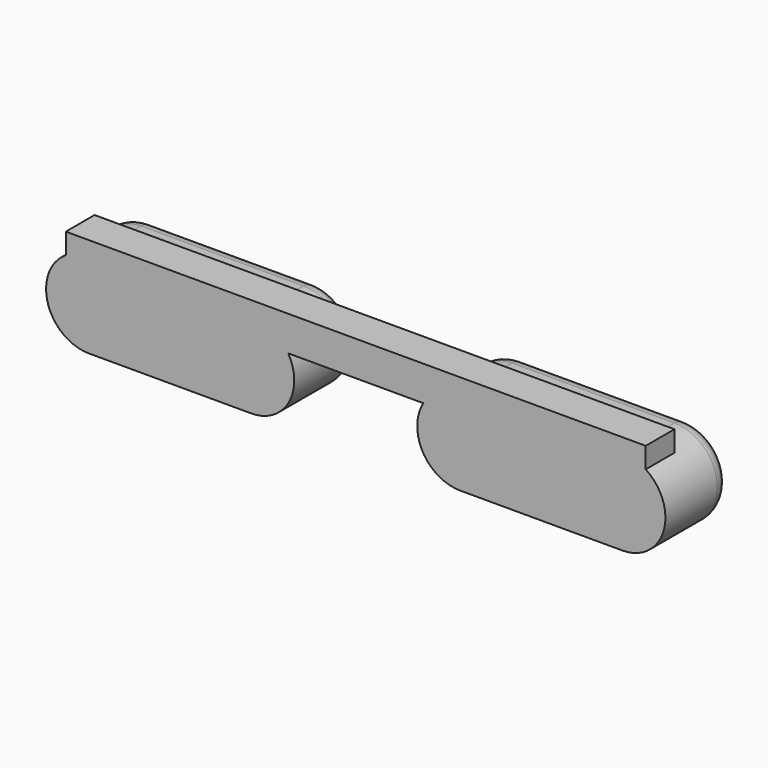
from build123d import *

# Parameters (mm, degrees)
SKETCH007_W  = 25
SKETCH007_H  = 1.5
PAD001_DEPTH = 1.55
PAD002_DEPTH = 3.5
FILLET002_R  = 0.7


with BuildPart() as part:
    # Sketch007 → Pad001 (new body)
    with BuildSketch(Plane.XZ):
        with Locations((0, 0.1)):
            Rectangle(SKETCH007_W, SKETCH007_H)
    extrude(amount=-PAD001_DEPTH)

    # Sketch008 → Pad002 (join)
    with BuildSketch(Plane.XZ):
        with BuildLine():
            ThreePointArc((-11.5, 0.25), (-13.35, -1.6), (-11.5, -3.45))
            Line((-11.5, -3.45), (-4.5, -3.45))
            ThreePointArc((-4.5, -3.45), (-2.65, -1.6), (-4.5, 0.25))
            Line((-4.5, 0.25), (-11.5, 0.25))
        make_face()
    pad002 = extrude(amount=-PAD002_DEPTH)

    # Mirrored001: Pad002 across Sketch008 V_Axis
    add(pad002.mirror(Plane(origin=(0, 0, 0), x_dir=(0, -1, 0), z_dir=(1, 0, 0))))

    # Fillet002
    fillet002_edges = [part.edges().sort_by_distance(p)[0] for p in [
        (13.35, 3.5, -1.6),
        (8, 3.5, -3.45),
        (2.65, 3.5, -1.6),
        (8, 3.5, 0.25),
        (-13.35, 3.5, -1.6),
        (-8, 3.5, -3.45),
        (-2.65, 3.5, -1.6),
        (-8, 3.5, 0.25),
    ]]
    fillet(fillet002_edges, radius=FILLET002_R)


solid = part.part
